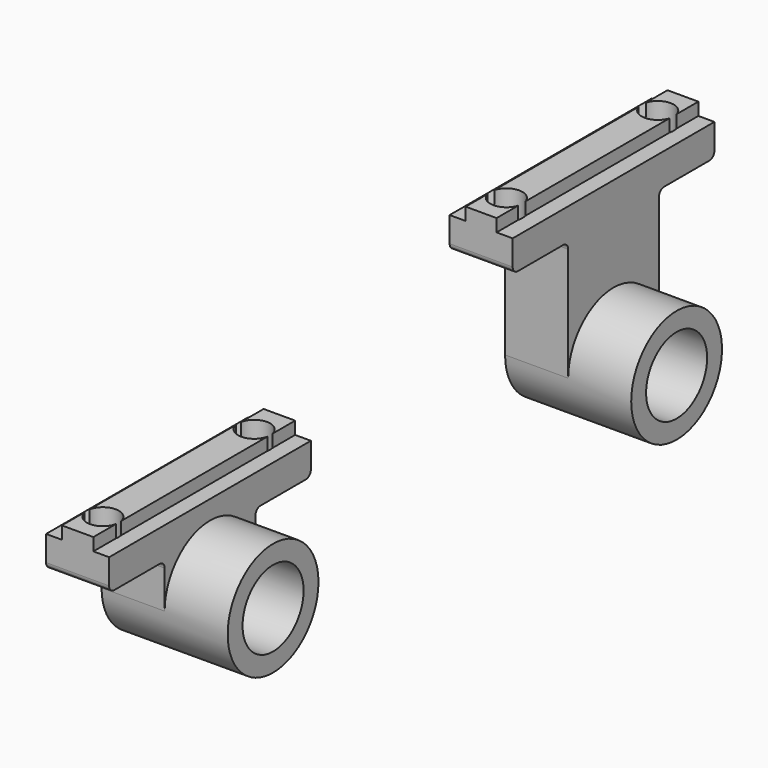
from build123d import *

# Parameters (mm, degrees)
F0_R      = 9
F1_DEPTH  = 20
F4_DEPTH  = 20
F7_DEPTH  = 40
F9_DEPTH  = 25
F10_R     = 6.05
F11_DEPTH = 18
F12_R     = 3.5
F13_DEPTH = 25
F14_R     = 2.55
F15_DEPTH = 19.001


with BuildPart() as f1:
    # F0 (on Right) → F1 (new body)
    with BuildSketch(Plane.YZ):
        Circle(F0_R)
    extrude(amount=F1_DEPTH)

    # F3 (on Front) → F4 (join, symmetric)
    with BuildSketch(Plane.XZ):
        Polygon((2.55, 24), (0, 24), (0, 0), (10, 0), (10, 24), (7.45, 24), (7.45, 26), (2.55, 26), align=None)
    extrude(amount=F4_DEPTH, both=True)


with BuildPart() as f5_1:
    # F5: instance of F1
    add(f1.part.mirror(Plane.XZ.offset(-40)))


with BuildPart() as f1_1:
    add(f1.part)

    # F6 (on face) → F7 (cut)
    with BuildSketch(Plane.XZ.offset(20)):
        Polygon((0, 26), (0, 12), (2.5, 12), (2.5, 14), (7.5, 14), (7.5, 12), (10, 12), (10, 26), align=None)
    extrude(amount=-F7_DEPTH, mode=Mode.SUBTRACT)


with BuildPart() as f9_tool:
    # F8 (on face) → F9 (new body)
    with BuildSketch(Plane.YZ.offset(10)):
        with BuildLine():
            Line((-10, 7), (-19, 7))
            ThreePointArc((-19, 7), (-19.7071067812, 7.2928932188), (-20, 8))
            Line((-20, 8), (-20, 0))
            Line((-20, 0), (-9, 0))
            Line((-9, 0), (-9, 6))
            ThreePointArc((-9, 6), (-9.2928932188, 6.7071067812), (-10, 7))
        make_face()
        with BuildLine():
            ThreePointArc((10, 7), (9.2928932188, 6.7071067812), (9, 6))
            Line((9, 6), (9, 0))
            Line((9, 0), (20, 0))
            Line((20, 0), (20, 8))
            ThreePointArc((20, 8), (19.7071067812, 7.2928932188), (19, 7))
            Line((19, 7), (10, 7))
        make_face()
        with BuildLine():
            ThreePointArc((61, 19), (60.2928932188, 19.2928932188), (60, 20))
            Line((60, 20), (60, 0))
            Line((60, 0), (71, 0))
            Line((71, 0), (71, 18))
            ThreePointArc((71, 18), (70.7071067812, 18.7071067812), (70, 19))
            Line((70, 19), (61, 19))
        make_face()
        with BuildLine():
            Line((100, 0), (100, 20))
            ThreePointArc((100, 20), (99.7071067812, 19.2928932188), (99, 19))
            Line((99, 19), (90, 19))
            ThreePointArc((90, 19), (89.2928932188, 18.7071067812), (89, 18))
            Line((89, 18), (89, 0))
            Line((89, 0), (100, 0))
        make_face()
    extrude(amount=-F9_DEPTH)


with BuildPart() as f1_2:
    add(f1_1.part)

    # F9: cut by f9_tool
    add(f9_tool.part, mode=Mode.SUBTRACT)


with BuildPart() as f5_1_1:
    add(f5_1.part)

    # F9: cut by f9_tool
    add(f9_tool.part, mode=Mode.SUBTRACT)


with BuildPart() as f11_tool:
    # F10 (on face) → F11 (new body)
    with BuildSketch(Plane.YZ.offset(20)):
        Circle(F10_R)
        with Locations((80, 0)):
            Circle(F10_R)
    extrude(amount=-F11_DEPTH)


with BuildPart() as f1_3:
    add(f1_2.part)

    # F11: cut by f11_tool
    add(f11_tool.part, mode=Mode.SUBTRACT)


with BuildPart() as f5_1_2:
    add(f5_1_1.part)

    # F11: cut by f11_tool
    add(f11_tool.part, mode=Mode.SUBTRACT)


with BuildPart() as f13_tool:
    # F12 (on face) → F13 (new body)
    with BuildSketch(Plane(origin=(0, 0, 0), x_dir=(0, -1, 0), z_dir=(-1, 0, 0))):
        Circle(F12_R)
        with Locations((-80, 0)):
            Circle(F12_R)
    extrude(amount=-F13_DEPTH)


with BuildPart() as f1_4:
    add(f1_3.part)

    # F13: cut by f13_tool
    add(f13_tool.part, mode=Mode.SUBTRACT)


with BuildPart() as f5_1_3:
    add(f5_1_2.part)

    # F13: cut by f13_tool
    add(f13_tool.part, mode=Mode.SUBTRACT)


with BuildPart() as f15_tool:
    # F14 (on face) → F15 (new body, through all)
    with BuildSketch(Plane(origin=(0, 0, 7), x_dir=(1, 0, 0), z_dir=(0, 0, -1))):
        with Locations((5, 15)):
            Circle(F14_R)
        with Locations((5, -15)):
            Circle(F14_R)
        with Locations((5, -65)):
            Circle(F14_R)
        with Locations((5, -95)):
            Circle(F14_R)
    extrude(amount=-F15_DEPTH)


with BuildPart() as f1_5:
    add(f1_4.part)

    # F15: cut by f15_tool
    add(f15_tool.part, mode=Mode.SUBTRACT)


with BuildPart() as f5_1_4:
    add(f5_1_3.part)

    # F15: cut by f15_tool
    add(f15_tool.part, mode=Mode.SUBTRACT)


solid = Compound([f1_5.part, f5_1_4.part])
